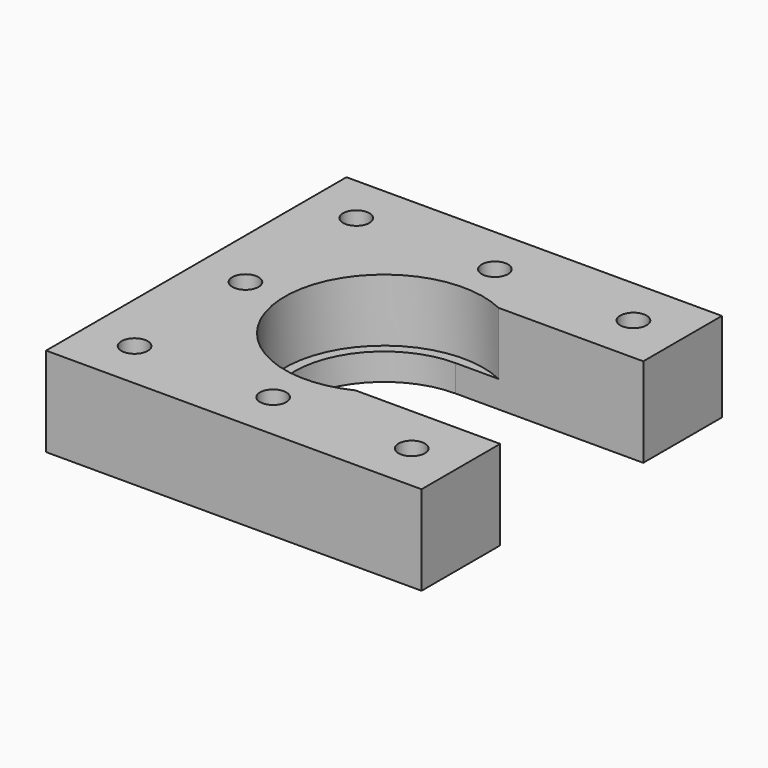
from build123d import *

# Parameters (mm, degrees)
SKETCH052_R     = 1.475
PAD015_DEPTH    = 10
SKETCH051_R     = 2.76
POCKET032_DEPTH = 3
SKETCH053_R     = 11.1
POCKET033_DEPTH = 7


with BuildPart() as part:
    # Sketch052 → Pad015 (new body)
    with BuildSketch(Plane.XY):
        with BuildLine():
            Line((-21, 21), (21, 21))
            Line((21, 21), (21, 10))
            Line((21, 10), (0, 10))
            ThreePointArc((0, 10), (-10, 0), (0, -10))
            Line((21, -10), (0, -10))
            Line((21, -21), (21, -10))
            Line((21, -21), (-21, -21))
            Line((-21, -21), (-21, 21))
        make_face()
        with Locations((-15.5, 15.5)):
            Circle(SKETCH052_R, mode=Mode.SUBTRACT)
        with Locations((15.5, 15.5)):
            Circle(SKETCH052_R, mode=Mode.SUBTRACT)
        with Locations((-15.5, -15.5)):
            Circle(SKETCH052_R, mode=Mode.SUBTRACT)
        with Locations((15.5, -15.5)):
            Circle(SKETCH052_R, mode=Mode.SUBTRACT)
        with Locations((-15.5, 0)):
            Circle(SKETCH052_R, mode=Mode.SUBTRACT)
        with Locations((0, 15.5)):
            Circle(SKETCH052_R, mode=Mode.SUBTRACT)
        with Locations((0, -15.5)):
            Circle(SKETCH052_R, mode=Mode.SUBTRACT)
    extrude(amount=PAD015_DEPTH)

    # Sketch051 → Pocket032 (cut)
    with BuildSketch(Plane.XY):
        with Locations((-15.5, 15.5)):
            Circle(SKETCH051_R)
        with Locations((15.5, 15.5)):
            Circle(SKETCH051_R)
        with Locations((-15.5, -15.5)):
            Circle(SKETCH051_R)
        with Locations((15.5, -15.5)):
            Circle(SKETCH051_R)
        with Locations((-15.5, 0)):
            Circle(SKETCH051_R)
        with Locations((0, 15.5)):
            Circle(SKETCH051_R)
        with Locations((0, -15.5)):
            Circle(SKETCH051_R)
    extrude(amount=POCKET032_DEPTH, mode=Mode.SUBTRACT)

    # Sketch053 (on Face5 of Pocket032) → Pocket033 (cut)
    with BuildSketch(Plane.XY.offset(10)):
        Circle(SKETCH053_R)
    extrude(amount=-POCKET033_DEPTH, mode=Mode.SUBTRACT)


solid = part.part
